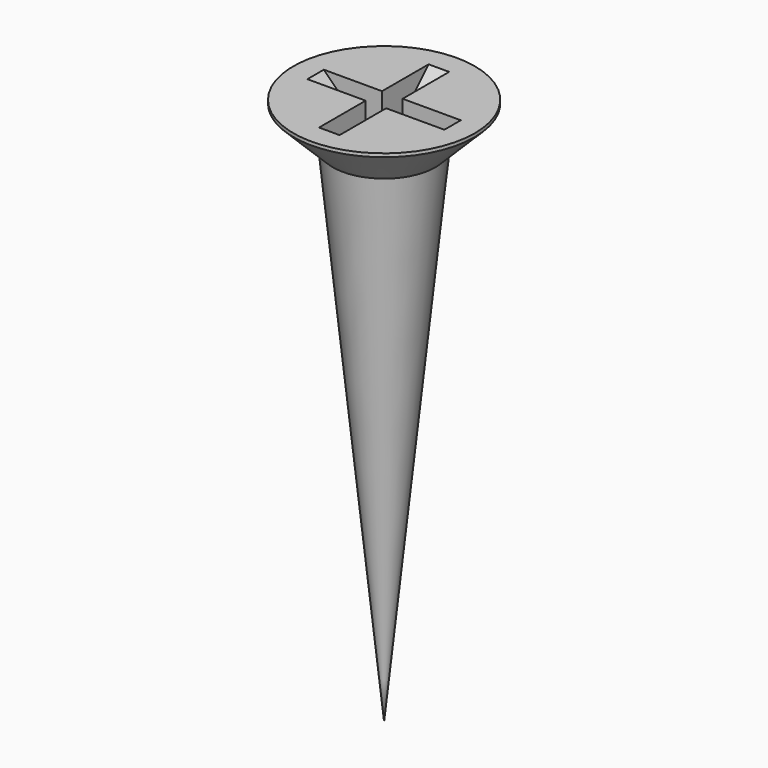
from build123d import *

# Parameters (mm, degrees)
POCKET019_DEPTH       = 0.3
POLARPATTERN002_COUNT = 2
POLARPATTERN002_ANGLE = 90


with BuildPart() as part:
    # Sketch061 → Revolution012 (revolve)
    with BuildSketch(Plane.XZ):
        Polygon((0, 0), (0, -16), (1.5, -1.25), (2.65, -0.1), (2.65, 0), align=None)
    revolve(axis=Axis((0, 0, 0), (0, 0, 1)))

    # Sketch062 → Pocket019 (cut, symmetric)
    with BuildSketch(Plane.XZ):
        Polygon((-2, 0), (0, -2), (2, 0), align=None)
    pocket019 = extrude(amount=POCKET019_DEPTH, both=True, mode=Mode.SUBTRACT)

    # PolarPattern002: Pocket019 ×2 about axis
    polarpattern002_axis = Axis((0, 0, 0), (0, 0, 1))
    for i in range(1, POLARPATTERN002_COUNT):
        add(pocket019.rotate(polarpattern002_axis, i * POLARPATTERN002_ANGLE / (POLARPATTERN002_COUNT - 1)), mode=Mode.SUBTRACT)


solid = part.part
